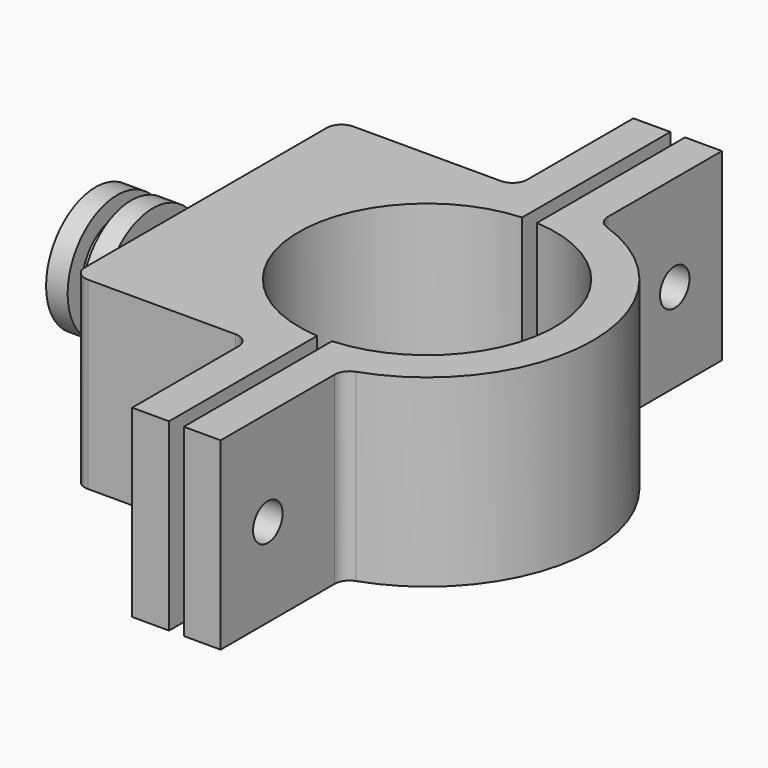
from build123d import *

# Parameters (mm, degrees)
F1_DEPTH  = 15.875
F2_R      = 3.81
F3_DEPTH  = 4.572
F4_R      = 5.334
F5_DEPTH  = 1.8542
F6_R      = 3.81
F7_DEPTH  = 1.2192
F8_R      = 5.334
F9_DEPTH  = 1.8542
F10_R     = 1.5875
F11_DEPTH = 25.4
F12_R     = 1.5875
F13_DEPTH = 25.4
F15_DEPTH = 25.4


with BuildPart() as f1:
    # F0 (on Top) → F1 (new body)
    with BuildSketch(Plane.XY):
        with BuildLine():
            ThreePointArc((-3.81, 15.5575), (-4.1819743879, 14.6594743879), (-5.08, 14.2875))
            Line((-5.08, 14.2875), (-17.78, 14.2875))
            ThreePointArc((-17.78, 14.2875), (-18.6780256121, 13.9155256121), (-19.05, 13.0175))
            Line((-19.05, 13.0175), (-19.05, -13.0175))
            ThreePointArc((-19.05, -13.0175), (-18.6780256121, -13.9155256121), (-17.78, -14.2875))
            Line((-17.78, -14.2875), (-5.08, -14.2875))
            ThreePointArc((-5.08, -14.2875), (-4.1819743879, -14.6594743879), (-3.81, -15.5575))
            Line((-3.81, -15.5575), (-3.81, -26.9875))
            Line((-3.81, -26.9875), (3.81, -26.9875))
            Line((3.81, -26.9875), (3.81, -14.7047409447))
            ThreePointArc((3.81, -14.7047409447), (4.0456980072, -13.9677746037), (4.6653061224, -13.5043539288))
            ThreePointArc((4.6653061224, -13.5043539288), (14.2875, 0), (4.6653061224, 13.5043539288))
            ThreePointArc((4.6653061224, 13.5043539288), (4.0456980072, 13.9677746037), (3.81, 14.7047409447))
            Line((3.81, 14.7047409447), (3.81, 26.9875))
            Line((3.81, 26.9875), (-3.81, 26.9875))
            Line((-3.81, 26.9875), (-3.81, 15.5575))
        make_face()
    extrude(amount=F1_DEPTH)

    # F2 (on face) → F3 (join)
    with BuildSketch(Plane(origin=(-19.05, 0, 0), x_dir=(0, -1, 0), z_dir=(-1, 0, 0))):
        with Locations((0, 8.255)):
            Circle(F2_R)
    extrude(amount=F3_DEPTH)

    # F4 (on face) → F5 (join)
    with BuildSketch(Plane(origin=(-23.622, 0, 0), x_dir=(0, -1, 0), z_dir=(-1, 0, 0))):
        with Locations((0, 8.255)):
            Circle(F4_R)
    extrude(amount=F5_DEPTH)

    # F6 (on face) → F7 (join)
    with BuildSketch(Plane(origin=(-25.4762, 0, 0), x_dir=(0, -1, 0), z_dir=(-1, 0, 0))):
        with Locations((0, 8.255)):
            Circle(F6_R)
    extrude(amount=F7_DEPTH)

    # F8 (on face) → F9 (join)
    with BuildSketch(Plane(origin=(-26.6954, 0, 0), x_dir=(0, -1, 0), z_dir=(-1, 0, 0))):
        with Locations((0, 8.255)):
            Circle(F8_R)
    extrude(amount=F9_DEPTH)

    # F10 (on face) → F11 (cut)
    with BuildSketch(Plane(origin=(-3.81, 0, 0), x_dir=(0, -1, 0), z_dir=(-1, 0, 0))):
        with Locations((-21.9075, 7.62)):
            Circle(F10_R)
    extrude(amount=-F11_DEPTH, mode=Mode.SUBTRACT)

    # F12 (on face) → F13 (cut)
    with BuildSketch(Plane(origin=(-3.81, 0, 0), x_dir=(0, -1, 0), z_dir=(-1, 0, 0))):
        with Locations((21.9075, 7.62)):
            Circle(F12_R)
    extrude(amount=-F13_DEPTH, mode=Mode.SUBTRACT)

    # F14 (on face) → F15 (cut)
    with BuildSketch(Plane.XY.offset(15.875)):
        with BuildLine():
            Line((0.635, 31.973856169), (-0.635, 31.973856169))
            Line((-0.635, 31.973856169), (-0.635, 11.0307377813))
            ThreePointArc((-0.635, 11.0307377813), (-11.0249801068, 0.7281583924), (-2.0802331986, -10.8514068599))
            ThreePointArc((-2.0802331986, -10.8514068599), (-1.3605744101, -10.9649094057), (-0.635, -11.0307377813))
            Line((-0.635, -11.0307377813), (-0.635, -36.412394438))
            Line((-0.635, -36.412394438), (0.635, -36.412394438))
            Line((0.635, -36.412394438), (0.635, -11.0307377813))
            ThreePointArc((0.635, -11.0307377813), (11.049, 0), (0.635, 11.0307377813))
            Line((0.635, 11.0307377813), (0.635, 31.973856169))
        make_face()
    extrude(amount=-F15_DEPTH, mode=Mode.SUBTRACT)


solid = f1.part
